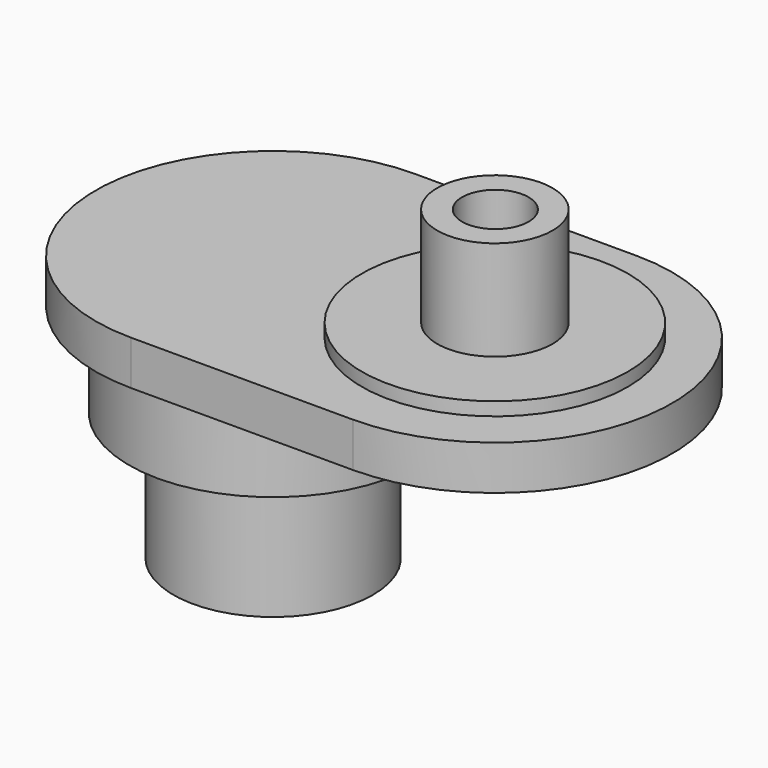
from build123d import *

# Parameters (mm, degrees)
PAD005_DEPTH = 10
SKETCH014_R  = 1.5
PAD013_DEPTH = 10
SKETCH002_R  = 6
PAD001_DEPTH = 2.6
SKETCH003_R  = 2.6
PAD002_DEPTH = 7.1
SKETCH004_R  = 4.5
PAD003_DEPTH = 10
SKETCH005_R  = 6.5
PAD004_DEPTH = 4.2
PAD006_DEPTH = 2


with BuildPart() as motor_linkage_hole_body:
    # Sketch006 → Pad005 (new body)
    with BuildSketch(Plane.XY):
        with BuildLine():
            Line((-7, 2.236068), (-7, -2.236068))
            ThreePointArc((-7, -2.236068), (-5, -3), (-3, -2.236068))
            Line((-3, -2.236068), (-3, 2.236068))
            ThreePointArc((-3, 2.236068), (-5, 3), (-7, 2.236068))
        make_face()
    extrude(amount=-PAD005_DEPTH)


with BuildPart() as hole_fusion:
    # Sketch014 → Pad013 (new body, symmetric)
    with BuildSketch(Plane.XY):
        with Locations((5.020646, 0)):
            Circle(SKETCH014_R)
    extrude(amount=PAD013_DEPTH, both=True)

    # Fusion005: union motor linkage hole body
    add(motor_linkage_hole_body.part)


with BuildPart() as motor_linkage_cut:
    # Sketch002 → Pad001 (new body)
    with BuildSketch(Plane.XY):
        with Locations((5, 0)):
            Circle(SKETCH002_R)
    extrude(amount=PAD001_DEPTH)

    # Sketch003 → Pad002 (join)
    with BuildSketch(Plane.XY):
        with Locations((5, 0)):
            Circle(SKETCH003_R)
    extrude(amount=PAD002_DEPTH)

    # Sketch004 → Pad003 (join)
    with BuildSketch(Plane.XY):
        with Locations((-5, 0)):
            Circle(SKETCH004_R)
    extrude(amount=-PAD003_DEPTH)

    # Sketch005 → Pad004 (join)
    with BuildSketch(Plane.XY):
        with Locations((-5, 0)):
            Circle(SKETCH005_R)
    extrude(amount=-PAD004_DEPTH)

    # Sketch001 → Pad006 (join)
    with BuildSketch(Plane.XY):
        with BuildLine():
            Line((-5, 8), (5, 8))
            ThreePointArc((5, -8), (13, 0), (5, 8))
            Line((-5, -8), (5, -8))
            ThreePointArc((-5, 8), (-13, 0), (-5, -8))
        make_face()
    extrude(amount=PAD006_DEPTH)

    # Cut: cut hole fusion
    add(hole_fusion.part, mode=Mode.SUBTRACT)


solid = motor_linkage_cut.part
